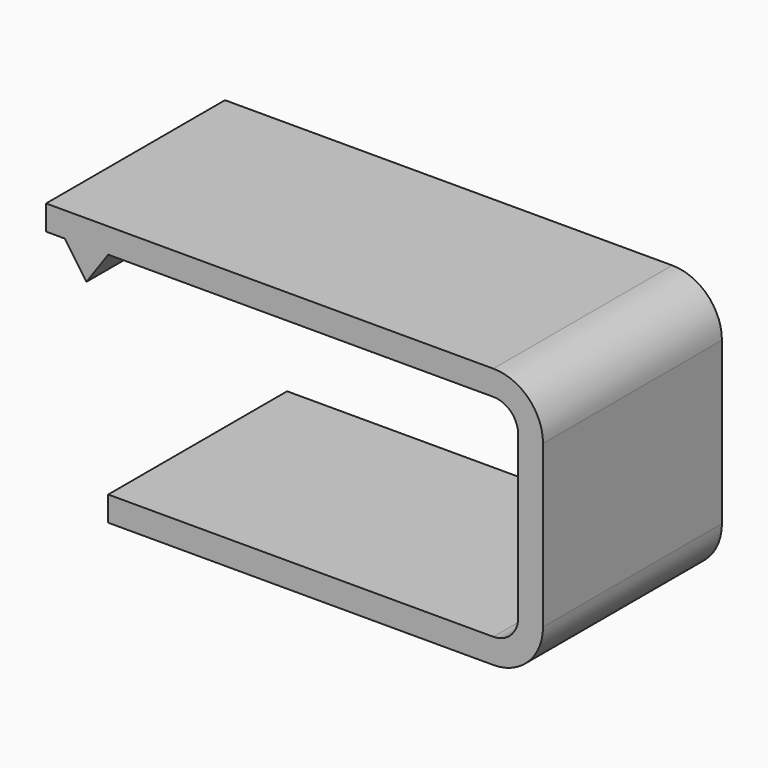
from build123d import *

# Parameters (mm, degrees)
F1_DEPTH = 18
F2_R     = 2
F3_R     = 4


with BuildPart() as f1:
    # F0 (on Front) → F1 (new body)
    with BuildSketch(Plane.XZ):
        Polygon((16.5, 8.5), (16.5, -8.5), (-16.5, -8.5), (-16.5, -10.5), (18.5, -10.5), (18.5, 10.5), (-21.5, 10.5), (-21.5, 8.5), (-20, 8.5), (-18.25, 6), (-16.5, 8.5), align=None)
    extrude(amount=F1_DEPTH)

    # F2
    f2_edges = [f1.edges().sort_by_distance(p)[0] for p in [
        (16.5, -9, 8.5),
        (16.5, -9, -8.5),
    ]]
    fillet(f2_edges, radius=F2_R)

    # F3
    f3_edges = [f1.edges().sort_by_distance(p)[0] for p in [
        (18.5, -9, 10.5),
        (18.5, -9, -10.5),
    ]]
    fillet(f3_edges, radius=F3_R)


solid = f1.part
